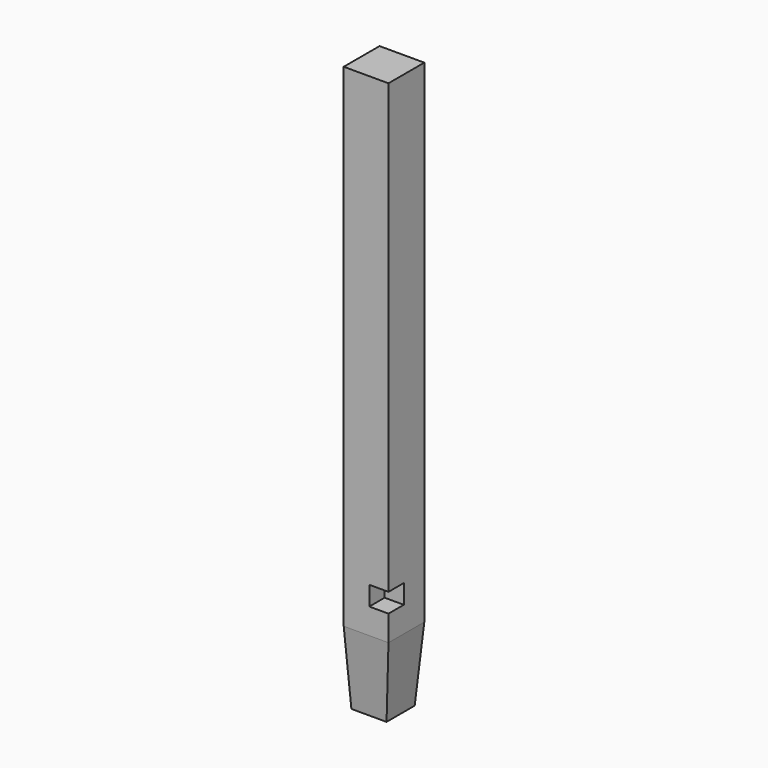
from build123d import *

# Parameters (mm, degrees)
F0_W     = 44.45
F0_H     = 44.45
F1_DEPTH = 565.15
F3_DEPTH = 44.45
F5_DEPTH = 44.451
F6_W     = 19.05
F6_H     = 19.05
F7_DEPTH = 19.05


with BuildPart() as f1:
    # F0 (on Top) → F1 (new body)
    with BuildSketch(Plane.XY):
        with Locations((-22.225, 22.225)):
            Rectangle(F0_W, F0_H)
    extrude(amount=-F1_DEPTH)

    # F2 (on face) → F3 (cut, through all)
    with BuildSketch(Plane.XZ):
        Polygon((-9.525, -565.15), (0, -565.15), (0, -488.95), align=None)
    extrude(amount=-F3_DEPTH, mode=Mode.SUBTRACT)

    # F4 (on face) → F5 (cut, through all)
    with BuildSketch(Plane(origin=(-44.45, 0, 0), x_dir=(0, -1, 0), z_dir=(-1, 0, 0))):
        Polygon((0, -565.15), (0, -488.95), (-9.525, -565.15), align=None)
    extrude(amount=-F5_DEPTH, mode=Mode.SUBTRACT)

    # F6 (on face) → F7 (cut)
    with BuildSketch(Plane.XZ):
        with Locations((-9.525, -454.025)):
            Rectangle(F6_W, F6_H)
    extrude(amount=-F7_DEPTH, mode=Mode.SUBTRACT)


solid = f1.part
